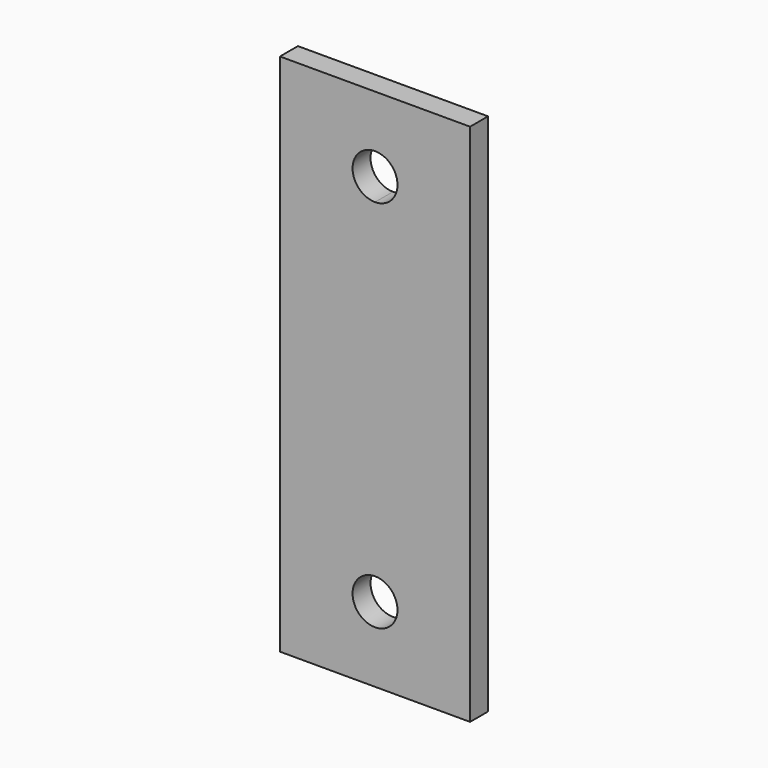
from build123d import *

# Parameters (mm, degrees)
F0_W     = 25.4
F0_H     = 70
F1_DEPTH = 3


with BuildPart() as f1:
    # F0 (on Front) → F1 (new body)
    with BuildSketch(Plane.XZ):
        Rectangle(F0_W, F0_H)
        with BuildLine():
            ThreePointArc((3, -25), (-2.12132, -27.12132), (0, -22))
            ThreePointArc((0, -22), (2.12132, -22.87868), (3, -25))
        make_face(mode=Mode.SUBTRACT)
        with BuildLine():
            ThreePointArc((3, 25), (2.12132, 22.87868), (0, 22))
            ThreePointArc((0, 22), (-2.12132, 27.12132), (3, 25))
        make_face(mode=Mode.SUBTRACT)
    extrude(amount=F1_DEPTH)


solid = f1.part
